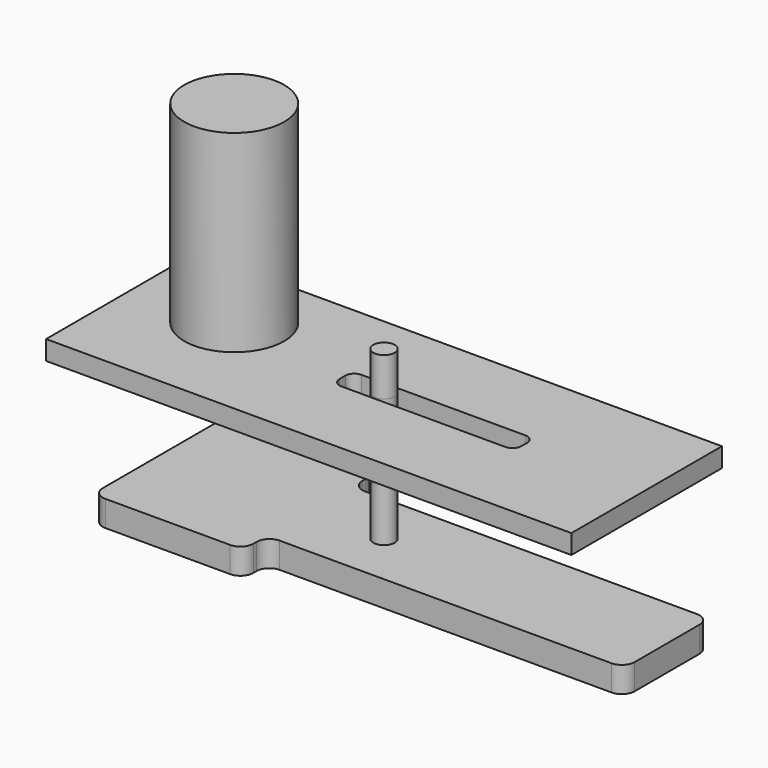
from build123d import *

# Parameters (mm, degrees)
F0_W       = 70.5697461963
F0_H       = 21.0471190512
F1_DEPTH   = 5.08
F2_R       = 2.54
F4_R       = 5.1884405509
F5_DEPTH   = 2.54
F6_R       = 1.9338794711
F7_DEPTH   = 12.7
F8_R       = 9.866190216
F8_R_2     = 1.9338794711
F9_DEPTH   = 38.1
F11_W      = 103.6831215024
F11_H      = 37.1339991689
F12_DEPTH  = 3.81
F13_OFFSET = 0.254
F14_W      = 35.903910175
F14_H      = 4.952263087
F15_DEPTH  = 30.481
F16_R      = 1.778
F17_R      = 2.116683431
F18_DEPTH  = 25.4
F19_DEPTH  = 7.62


with BuildPart() as f1:
    # F0 (on Top) → F1 (new body)
    with BuildSketch(Plane.XY):
        Polygon((-14.7020295262, 16.4043717086), (-44.4156117737, 16.4043717086), (-44.4156117737, -16.4043717086), (-14.7020295262, -16.4043717086), (-14.7020295262, -10.5235595256), (-14.7020295262, 10.5235595256), align=None)
        with Locations((20.5828435719, 0)):
            Rectangle(F0_W, F0_H)
    extrude(amount=F1_DEPTH)

    # F2
    f2_edges = [f1.edges().sort_by_distance(p)[0] for p in [
        (-14.70203, 10.52356, 2.54),
        (-14.70203, 16.404372, 2.54),
        (-44.415612, 16.404372, 2.54),
        (55.867717, 10.52356, 2.54),
        (55.867717, -10.52356, 2.54),
        (-14.70203, -10.52356, 2.54),
        (-14.70203, -16.404372, 2.54),
        (-44.415612, -16.404372, 2.54),
    ]]
    fillet(f2_edges, radius=F2_R)

    # F17 (on face) → F18 (join, through all)
    with BuildSketch(Plane.XY.offset(30.48)):
        Circle(F17_R)
    extrude(amount=-F18_DEPTH)

    # F19 (add): a face of the model
    f19_faces = [f1.faces().sort_by_distance(p)[0] for p in [
        (0, 0, 30.48),
    ]]
    extrude(f19_faces, amount=F19_DEPTH)


with BuildPart() as f5:
    # F4 (on offset) → F5 (new body)
    with BuildSketch(Plane.XY.offset(17.78)):
        with Locations((-29.55882065, 0)):
            Circle(F4_R)
    extrude(amount=F5_DEPTH)


with BuildPart() as f7:
    # F6 (on face) → F7 (new body)
    with BuildSketch(Plane.XY.offset(20.32)):
        with Locations((-29.55882065, 0)):
            Circle(F6_R)
    extrude(amount=F7_DEPTH)

    # F8 (on face) → F9 (join)
    with BuildSketch(Plane.XY.offset(33.02)):
        with Locations((-29.55882065, 0)):
            Circle(F8_R)
        with Locations((-29.55882065, 0)):
            Circle(F8_R_2, mode=Mode.SUBTRACT)
        with Locations((-29.55882065, 0)):
            Circle(F8_R_2)
    extrude(amount=F9_DEPTH)


with BuildPart() as f12:
    # F11 (on offset) → F12 (new body)
    with BuildSketch(Plane(origin=(0, 0, 30.48), x_dir=(1, 0, 0), z_dir=(0, 0, -1))):
        Rectangle(F11_W, F11_H)
    extrude(amount=F12_DEPTH)

    # F13: cut F7, made larger all round first
    f13_tool = offset(f7.part, amount=F13_OFFSET, kind=Kind.INTERSECTION, mode=Mode.PRIVATE)
    add(f13_tool, mode=Mode.SUBTRACT)

    # F14 (on face) → F15 (cut, through all)
    with BuildSketch(Plane.XY.offset(30.48)):
        with Locations((9.7497692332, 0)):
            Rectangle(F14_W, F14_H)
    extrude(amount=-F15_DEPTH, mode=Mode.SUBTRACT)

    # F16
    f16_edges = [f12.edges().sort_by_distance(p)[0] for p in [
        (-8.202186, 2.476132, 28.575),
        (-8.202186, -2.476132, 28.575),
        (27.701724, 2.476132, 28.575),
        (27.701724, -2.476132, 28.575),
    ]]
    fillet(f16_edges, radius=F16_R)


solid = Compound([f1.part, f5.part, f7.part, f12.part])
